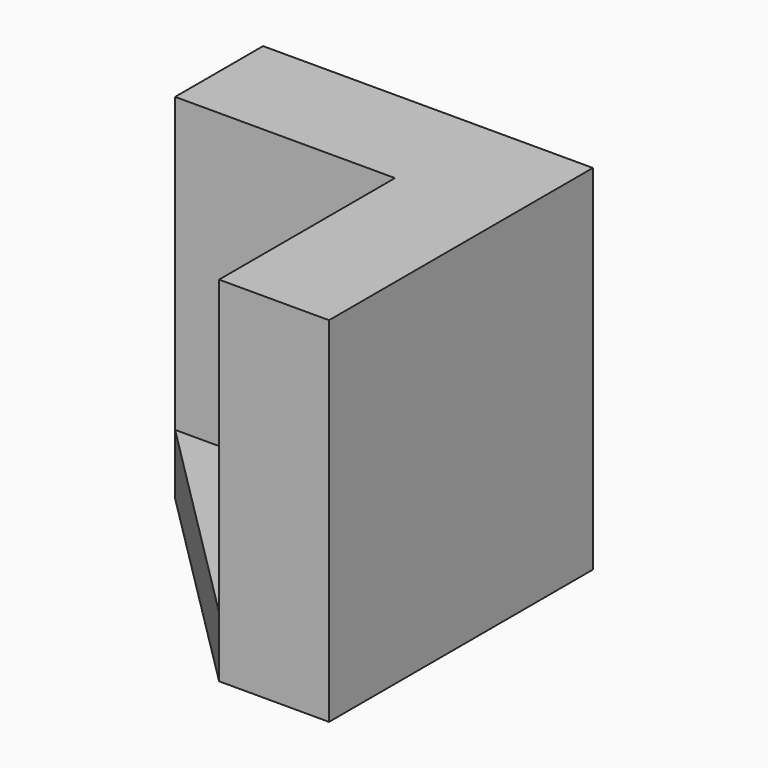
from build123d import *

# Parameters (mm, degrees)
PAD_DEPTH       = 19.3
POCKET_DEPTH    = 16.001
PAD001_DEPTH    = 2
SKETCH003_R     = 2.4
POCKET001_DEPTH = 3
CHAMFER_SIZE    = 0.3


with BuildPart() as part:
    # Sketch → Pad (new body)
    with BuildSketch(Plane.XY):
        Polygon((-9, 3), (-9, 9), (9, 9), (9, -9), (3, -9), align=None)
    extrude(amount=PAD_DEPTH)

    # Sketch001 (on DatumPlane) → Pocket (cut, through all)
    with BuildSketch(Plane.XY.offset(3.3)):
        Polygon((-9, 3), (3, 3), (3, -9), align=None)
    extrude(amount=POCKET_DEPTH, mode=Mode.SUBTRACT)

    # Sketch002 (on DatumPlane) → Pad001 (join)
    with BuildSketch(Plane.XY.offset(3.3)):
        with BuildLine():
            ThreePointArc((-3.8, 2.680869), (-3.3, 0.025), (-2.8, 2.680869))
            Line((-2.8, 2.680869), (-2.8, 3))
            Line((-3.8, 3), (-2.8, 3))
            Line((-3.8, 2.680869), (-3.8, 3))
        make_face()
        with BuildLine():
            ThreePointArc((2.680869, -2.8), (0.025, -3.3), (2.680869, -3.8))
            Line((3, -3.8), (2.680869, -3.8))
            Line((3, -2.8), (3, -3.8))
            Line((2.680869, -2.8), (3, -2.8))
        make_face()
    extrude(amount=PAD001_DEPTH)

    # Sketch003 → Pocket001 (cut)
    with BuildSketch(Plane.XY):
        with Locations((-0.3, -0.3)):
            Circle(SKETCH003_R)
    extrude(amount=POCKET001_DEPTH, mode=Mode.SUBTRACT)

    # Chamfer
    chamfer_edges = [part.edges().sort_by_distance(p)[0] for p in [
        (-3.3, 0.025, 5.3),
        (0.025, -3.3, 5.3),
    ]]
    chamfer(chamfer_edges, length=CHAMFER_SIZE)


solid = part.part
